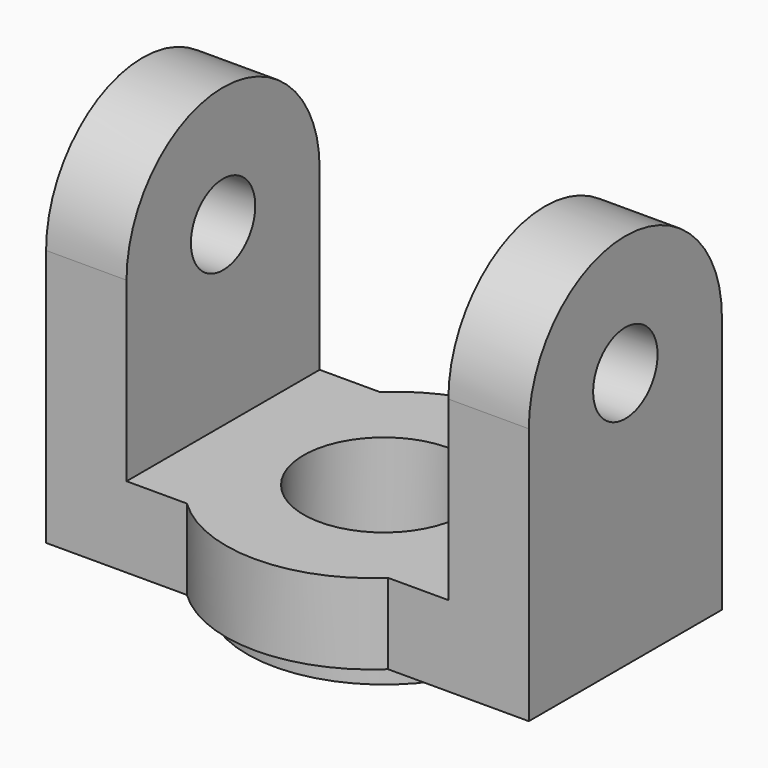
from build123d import *

# Parameters (mm, degrees)
F1_DEPTH  = 10
F2_R      = 10
F3_DEPTH  = 10.001
F4_R      = 17
F4_R_2    = 10
F5_DEPTH  = 3
F7_R      = 5
F8_DEPTH  = 10
F9_R      = 5
F10_DEPTH = 10


with BuildPart() as f1:
    # F0 (on Top) → F1 (new body)
    with BuildSketch(Plane.XY):
        with BuildLine():
            Line((42.5, 0), (17.5, 0))
            ThreePointArc((17.5, 0), (30, -5), (42.5, 0))
        make_face()
        with BuildLine():
            Line((0, 30), (0, 0))
            Line((0, 0), (17.5, 0))
            Line((17.5, 0), (42.5, 0))
            Line((42.5, 0), (60, 0))
            Line((60, 0), (60, 30))
            Line((60, 30), (42.5, 30))
            ThreePointArc((42.5, 30), (30, 35), (17.5, 30))
            Line((17.5, 30), (0, 30))
        make_face()
    extrude(amount=F1_DEPTH)

    # F2 (on face) → F3 (cut, through all)
    with BuildSketch(Plane.XY.offset(10)):
        with Locations((30, 15)):
            Circle(F2_R)
    extrude(amount=-F3_DEPTH, mode=Mode.SUBTRACT)

    # F4 (on face) → F5 (join)
    with BuildSketch(Plane(origin=(0, 0, 0), x_dir=(1, 0, 0), z_dir=(0, 0, -1))):
        with Locations((30, -15)):
            Circle(F4_R)
        with Locations((30, -15)):
            Circle(F4_R_2, mode=Mode.SUBTRACT)
    extrude(amount=F5_DEPTH)

    # F7 (on face) → F8 (join)
    with BuildSketch(Plane.YZ.offset(60)):
        with BuildLine():
            Line((30, 10), (30, 32))
            ThreePointArc((30, 32), (15, 17), (0, 32))
            Line((0, 32), (0, 10))
            Line((0, 10), (30, 10))
        make_face()
        with BuildLine():
            ThreePointArc((0, 32), (15, 17), (30, 32))
            ThreePointArc((30, 32), (15, 47), (0, 32))
        make_face()
        with Locations((15, 32)):
            Circle(F7_R, mode=Mode.SUBTRACT)
    extrude(amount=-F8_DEPTH)

    # F9 (on face) → F10 (join)
    with BuildSketch(Plane(origin=(0, 0, 0), x_dir=(0, -1, 0), z_dir=(-1, 0, 0))):
        with BuildLine():
            Line((0, 10), (0, 32))
            ThreePointArc((0, 32), (-15, 17), (-30, 32))
            Line((-30, 32), (-30, 10))
            Line((-30, 10), (0, 10))
        make_face()
        with BuildLine():
            ThreePointArc((-30, 32), (-15, 17), (0, 32))
            ThreePointArc((0, 32), (-15, 47), (-30, 32))
        make_face()
        with Locations((-15, 32)):
            Circle(F9_R, mode=Mode.SUBTRACT)
    extrude(amount=-F10_DEPTH)


solid = f1.part
